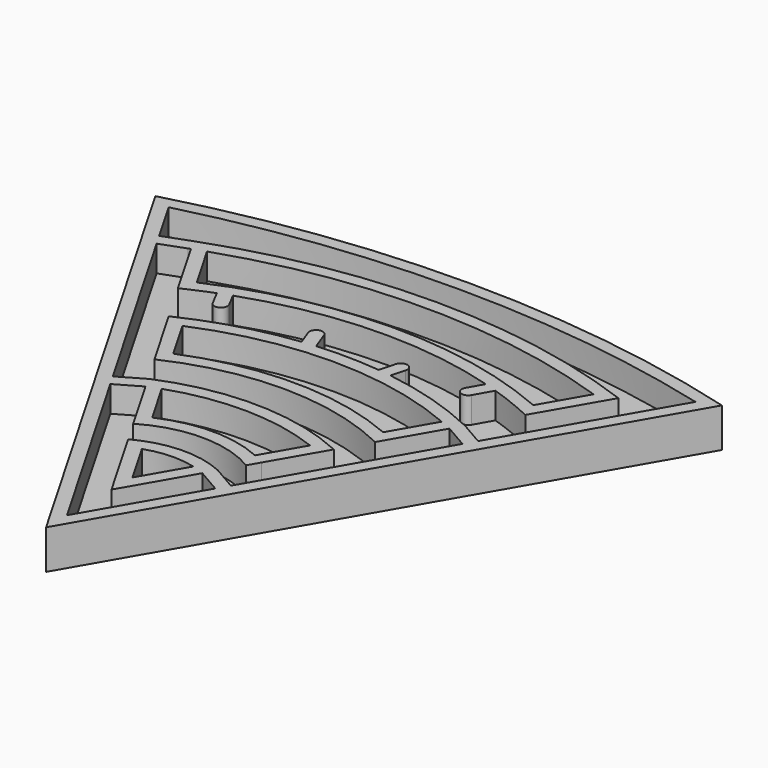
from build123d import *

# Parameters (mm, degrees)
F1_DEPTH = 6
F3_DEPTH = 2


with BuildPart() as f1:
    # F0 (on Top) → F1 (new body)
    with BuildSketch(Plane.XY):
        with BuildLine():
            Line((-43.30127, 25), (0, -50))
            Line((0, -50), (43.30127, 25))
            ThreePointArc((43.30127, 25), (0, 30.847641), (-43.30127, 25))
        make_face()
        with BuildLine():
            ThreePointArc((-11.589333, -13.426687), (-0.072865, -11.565377), (11.378667, -13.79157))
            Line((11.378667, -13.79157), (7.849282, -19.904644))
            ThreePointArc((7.849282, -19.904644), (0.005562, -18.216828), (-7.831448, -19.935535))
            Line((-7.831448, -19.935535), (-11.589333, -13.426687))
        make_face(mode=Mode.SUBTRACT)
        with BuildLine():
            ThreePointArc((-3.730163, -27.039168), (0.060809, -26.321755), (3.894771, -26.754059))
            Line((3.894771, -26.754059), (0, -33.5))
            Line((0, -33.5), (-3.730163, -27.039168))
        make_face(mode=Mode.SUBTRACT)
        with BuildLine():
            Line((9.497942, -29.549082), (0, -46))
            Line((0, -46), (-17.152136, -16.291628))
            Line((-17.152136, -16.291628), (-13.471529, -14.166628))
            Line((-13.471529, -14.166628), (-9.604325, -20.864822))
            Line((-9.604325, -20.864822), (-8.604242, -22.597016))
            ThreePointArc((-8.604242, -22.597016), (0.00573, -20.216832), (8.626059, -22.559227))
            Line((8.626059, -22.559227), (9.626098, -20.82711))
            Line((9.626098, -20.82711), (14.241089, -12.833711))
            Line((14.241089, -12.833711), (14.067922, -12.754568))
            ThreePointArc((14.067922, -12.754568), (-0.045906, -9.565553), (-14.253164, -12.308505))
            Line((-14.253164, -12.308505), (-18.152136, -14.559577))
            Line((-18.152136, -14.559577), (-35.505424, 15.497198))
            Line((-35.505424, 15.497198), (-31.782206, 16.874176))
            Line((-31.782206, 16.874176), (-31.461437, 16.992808))
            Line((-31.461437, 16.992808), (-26.316707, 8.081874))
            ThreePointArc((-26.316707, 8.081874), (-24.126261, 9.085191), (-21.898303, 10.0022))
            Line((-21.898303, 10.0022), (-20.685559, 7.700137))
            ThreePointArc((-20.685559, 7.700137), (-19.334733, 7.281486), (-18.916081, 8.632312))
            Line((-18.916081, 8.632312), (-20.006684, 10.702522))
            ThreePointArc((-20.006684, 10.702522), (-1.149596, 14.176087), (17.863047, 11.691171))
            Line((17.863047, 11.691171), (16.553134, 9.386264))
            ThreePointArc((16.553134, 9.386264), (16.928445, 8.022761), (18.291948, 8.398071))
            Line((18.291948, 8.398071), (19.816809, 11.081198))
            ThreePointArc((19.816809, 11.081198), (23.204445, 9.850646), (26.514425, 8.424332))
            Line((26.514425, 8.424332), (32.475953, 18.75))
            ThreePointArc((32.475953, 18.75), (0, 24.562976), (-32.475953, 18.75))
            Line((-32.475953, 18.75), (-36.519939, 17.25439))
            Line((-36.519939, 17.25439), (-39.837169, 23))
            Line((-39.837169, 23), (-40.264169, 23.739586))
            ThreePointArc((-40.264169, 23.739586), (0, 28.847641), (40.264169, 23.739586))
            Line((40.264169, 23.739586), (39.837169, 23))
            Line((39.837169, 23), (26.334579, -0.387172))
            Line((26.334579, -0.387172), (22.653971, 1.737828))
            Line((22.653971, 1.737828), (22.506193, 1.807767))
            ThreePointArc((22.506193, 1.807767), (15.212654, 4.617264), (7.583376, 6.315231))
            Line((7.583376, 6.315231), (8.163141, 8.512388))
            ThreePointArc((8.163141, 8.512388), (7.451374, 9.734431), (6.229331, 9.022663))
            Line((6.229331, 9.022663), (5.581544, 6.567719))
            ThreePointArc((5.581544, 6.567719), (0.753566, 6.859231), (-4.080781, 6.706128))
            Line((-4.080781, 6.706128), (-4.26912, 7.198283))
            Line((-4.26912, 7.198283), (-5.12863, 9.522317))
            ThreePointArc((-5.12863, 9.522317), (-6.413415, 10.113356), (-7.004454, 8.828571))
            Line((-7.004454, 8.828571), (-6.144944, 6.504537))
            ThreePointArc((-6.144944, 6.504537), (-14.516777, 4.82223), (-22.506193, 1.807767))
            Line((-22.506193, 1.807767), (-22.647311, 1.726292))
            Line((-22.647311, 1.726292), (-17.019315, -8.021681))
            ThreePointArc((-17.019315, -8.021681), (-0.039752, -4.305799), (16.88873, -8.247861))
            Line((16.88873, -8.247861), (21.653971, 0.005778))
            Line((21.653971, 0.005778), (25.334579, -2.119222))
            Line((25.334579, -2.119222), (10.497942, -27.817031))
            Line((10.497942, -27.817031), (6.817334, -25.692031))
            Line((6.817334, -25.692031), (6.626115, -25.606798))
            ThreePointArc((6.626115, -25.606798), (-0.001194, -24.322681), (-6.517118, -26.087024))
            Line((-6.517118, -26.087024), (-6.571243, -26.118273))
            Line((-6.571243, -26.118273), (0, -37.5))
            Line((0, -37.5), (5.817334, -27.424082))
            Line((5.817334, -27.424082), (9.497942, -29.549082))
        make_face(mode=Mode.SUBTRACT)
        with BuildLine():
            ThreePointArc((-19.816809, 0.823719), (0, 4.864628), (19.816809, 0.823719))
            Line((19.816809, 0.823719), (16.065514, -5.673714))
            ThreePointArc((16.065514, -5.673714), (-0.03855, -2.305764), (-16.18426, -5.46804))
            Line((-16.18426, -5.46804), (-19.816809, 0.823719))
        make_face(mode=Mode.SUBTRACT)
        with BuildLine():
            Line((29.542751, 17.669546), (25.685216, 10.988099))
            ThreePointArc((25.685216, 10.988099), (0.059225, 16.195833), (-25.499161, 10.665842))
            Line((-25.499161, 10.665842), (-29.542751, 17.669546))
            ThreePointArc((-29.542751, 17.669546), (0, 22.562976), (29.542751, 17.669546))
        make_face(mode=Mode.SUBTRACT)
    extrude(amount=F1_DEPTH)

    # F2 (on Top) → F3 (join)
    with BuildSketch(Plane.XY):
        with BuildLine():
            Line((-43.30127, 25), (0, -50))
            Line((0, -50), (43.30127, 25))
            ThreePointArc((43.30127, 25), (0, 30.847641), (-43.30127, 25))
        make_face()
    extrude(amount=F3_DEPTH)


solid = f1.part
